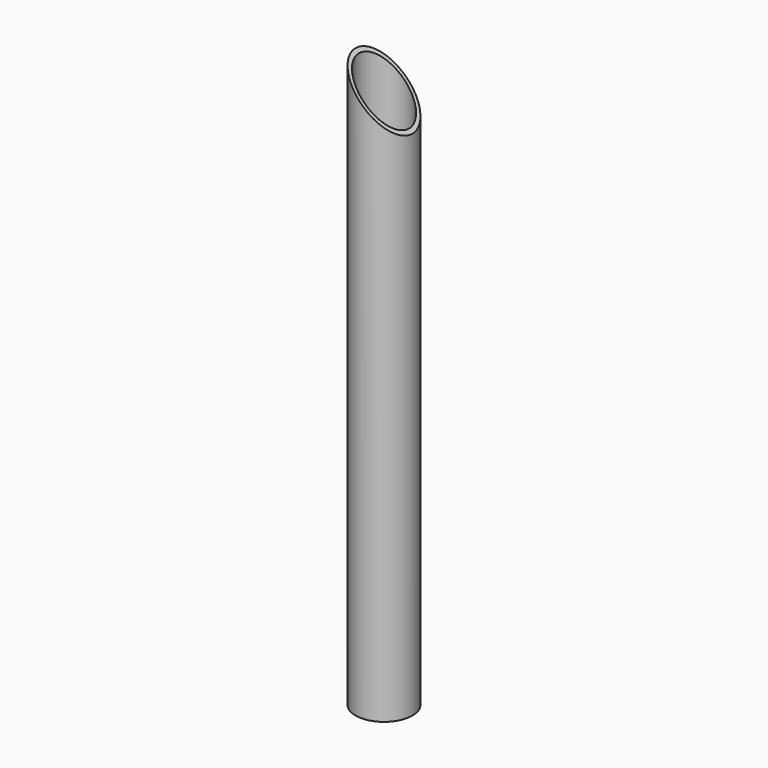
from build123d import *

# Parameters (mm, degrees)
F0_R     = 25
F0_R_2   = 22
F1_DEPTH = 500
F3_DEPTH = 40


with BuildPart() as f1:
    # F0 (on Top) → F1 (new body)
    with BuildSketch(Plane.XY):
        Circle(F0_R)
        Circle(F0_R_2, mode=Mode.SUBTRACT)
    extrude(amount=F1_DEPTH)

    # F2 (on Front) → F3 (cut, symmetric)
    with BuildSketch(Plane.XZ):
        Polygon((25.051745, 500.04977), (-24.948255, 500.04977), (25.051745, 450.04977), align=None)
    extrude(amount=F3_DEPTH, both=True, mode=Mode.SUBTRACT)


solid = f1.part
